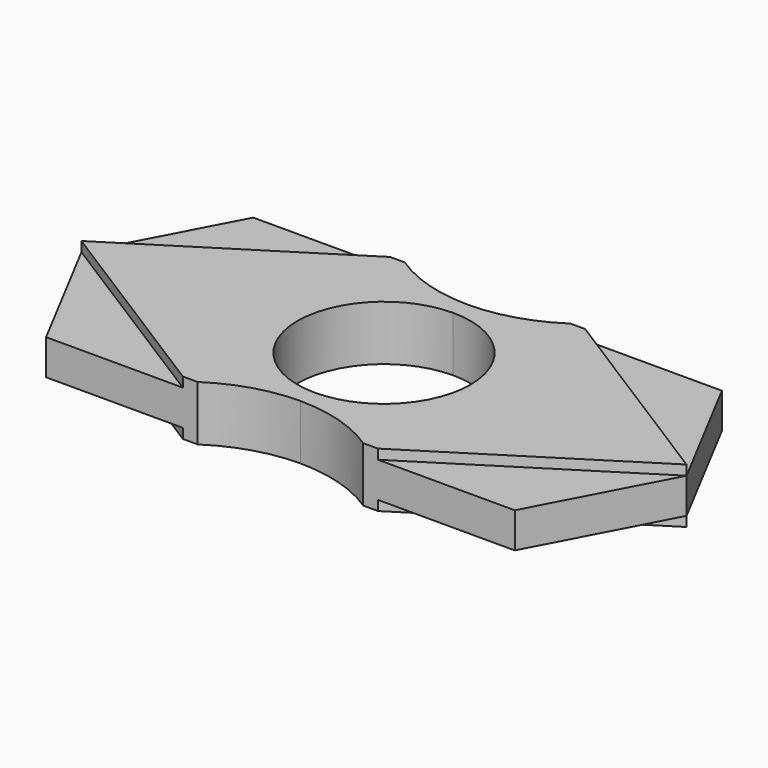
from build123d import *

# Parameters (mm, degrees)
F1_DEPTH = 3.5
F2_DEPTH = 2.25


with BuildPart() as f1:
    # F0 (on Top) → F1 (new body, symmetric)
    with BuildSketch(Plane.XY):
        with BuildLine():
            Line((0, 11), (0, 13.29107))
            ThreePointArc((0, 13.29107), (-5.502944, 14.105427), (-10.534165, 16.478689))
            Line((-10.534165, 16.478689), (-12.417887, 16.478689))
            Line((-12.417887, 16.478689), (-38.509145, 0))
            Line((-38.509145, 0), (-12.417887, -16.478689))
            Line((-12.417887, -16.478689), (-10.534165, -16.478689))
            ThreePointArc((-10.534165, -16.478689), (-5.502944, -14.105427), (0, -13.29107))
            Line((0, -13.29107), (0, -11))
            ThreePointArc((0, -11), (-11, 0), (0, 11))
        make_face()
        with BuildLine():
            Line((38.509145, 0), (12.417887, 16.478689))
            Line((12.417887, 16.478689), (10.534165, 16.478689))
            ThreePointArc((10.534165, 16.478689), (5.502944, 14.105427), (0, 13.29107))
            Line((0, 13.29107), (0, 11))
            ThreePointArc((0, 11), (7.778175, 7.778175), (11, 0))
            ThreePointArc((11, 0), (7.778175, -7.778175), (0, -11))
            Line((0, -11), (0, -13.29107))
            ThreePointArc((0, -13.29107), (5.502944, -14.105427), (10.534165, -16.478689))
            Line((10.534165, -16.478689), (12.417887, -16.478689))
            Line((12.417887, -16.478689), (38.509145, 0))
        make_face()
    extrude(amount=F1_DEPTH, both=True)

    # F0 (on Top) → F2 (join, symmetric)
    with BuildSketch(Plane.XY):
        Polygon((29.82781, -16.478689), (38.509145, 0), (12.417887, -16.478689), align=None)
        Polygon((38.509145, 0), (29.82781, 16.478689), (12.417887, 16.478689), align=None)
        Polygon((-12.417887, -16.478689), (-38.509145, 0), (-29.82781, -16.478689), align=None)
        Polygon((-38.509145, 0), (-12.417887, 16.478689), (-29.82781, 16.478689), align=None)
    extrude(amount=F2_DEPTH, both=True)


solid = f1.part
